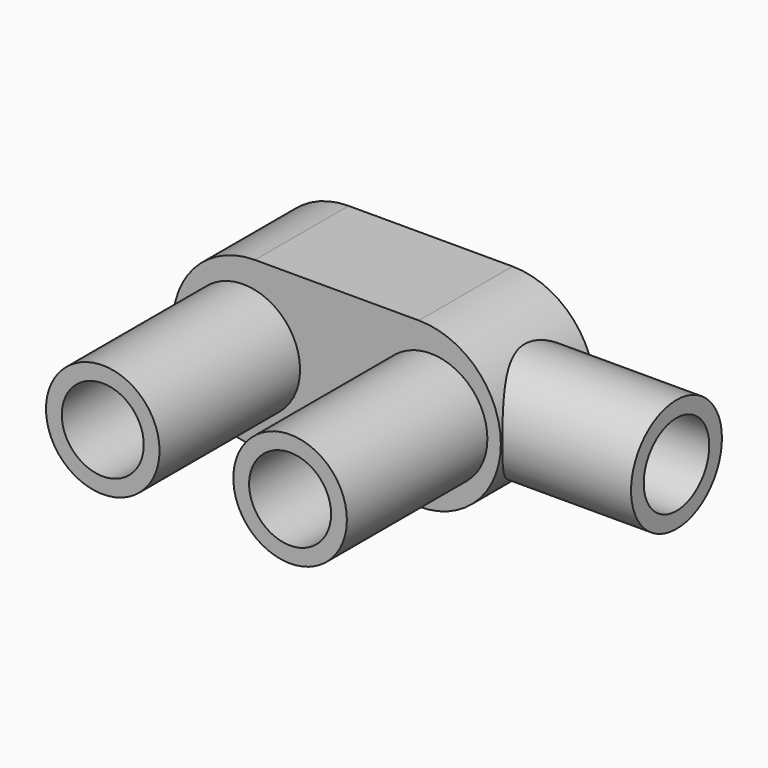
from build123d import *

# Parameters (mm, degrees)
F0_R     = 6.1595
F1_DEPTH = 25.4
F3_DEPTH = 6.35
F4_R     = 6.1595
F5_DEPTH = 31.75
F6_R     = 4.441025895
F7_DEPTH = 44.45
F8_R     = 4.445
F9_DEPTH = 29.21


with BuildPart() as f1:
    # F0 (on Front) → F1 (new body)
    with BuildSketch(Plane.XZ):
        with Locations((10.16, 0)):
            Circle(F0_R)
    extrude(amount=F1_DEPTH)



with BuildPart() as f1b:
    # F0 (on Front) → F1, piece 2 (new body)
    with BuildSketch(Plane.XZ):
        with Locations((-10.16, 0)):
            Circle(F0_R)
    extrude(amount=F1_DEPTH)


with BuildPart() as f1_1:
    add(f1.part)

    add(f1b.part)  # F3 merges F1b
    # F2 (on Front) → F3 (join, symmetric)
    with BuildSketch(Plane.XZ):
        with BuildLine():
            ThreePointArc((-8.89, 8.89), (-17.78, 0), (-8.89, -8.89))
            Line((-8.89, -8.89), (8.89, -8.89))
            ThreePointArc((8.89, -8.89), (17.78, 0), (8.89, 8.89))
            Line((8.89, 8.89), (-8.89, 8.89))
        make_face()
    extrude(amount=F3_DEPTH, both=True)

    # F4 (on Right) → F5 (join)
    with BuildSketch(Plane.YZ):
        Circle(F4_R)
    extrude(amount=F5_DEPTH)

    # F6 (on face) → F7 (cut)
    with BuildSketch(Plane.YZ.offset(31.75)):
        Circle(F6_R)
    extrude(amount=-F7_DEPTH, mode=Mode.SUBTRACT)

    # F8 (on face) → F9 (cut)
    with BuildSketch(Plane.XZ.offset(25.4)):
        with Locations((-10.16, 0)):
            Circle(F8_R)
        with Locations((10.16, 0)):
            Circle(F8_R)
    extrude(amount=-F9_DEPTH, mode=Mode.SUBTRACT)


solid = f1_1.part
